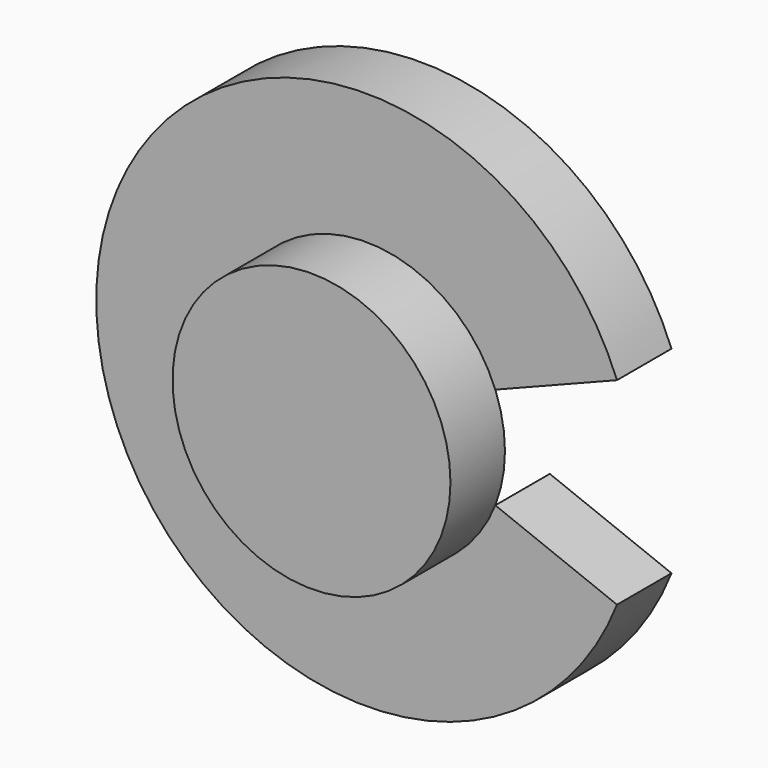
from build123d import *

# Parameters (mm, degrees)
F1_DEPTH = 25.4
F2_R     = 51.816
F3_DEPTH = 25.4


with BuildPart() as f1:
    # F0 (on Front) → F1 (new body)
    with BuildSketch(Plane.XZ):
        with BuildLine():
            Line((48.21383, 18.982213), (93.591553, 36.847825))
            ThreePointArc((93.591553, 36.847825), (-100.584, 0), (93.591553, -36.847825))
            Line((93.591553, -36.847825), (48.21383, -18.982213))
            ThreePointArc((48.21383, -18.982213), (-51.816, 0), (48.21383, 18.982213))
        make_face()
    extrude(amount=F1_DEPTH)


with BuildPart() as f3:
    # F2 (on face) → F3 (new body)
    with BuildSketch(Plane.XZ.offset(25.4)):
        Circle(F2_R)
    extrude(amount=F3_DEPTH)


solid = Compound([f1.part, f3.part])
